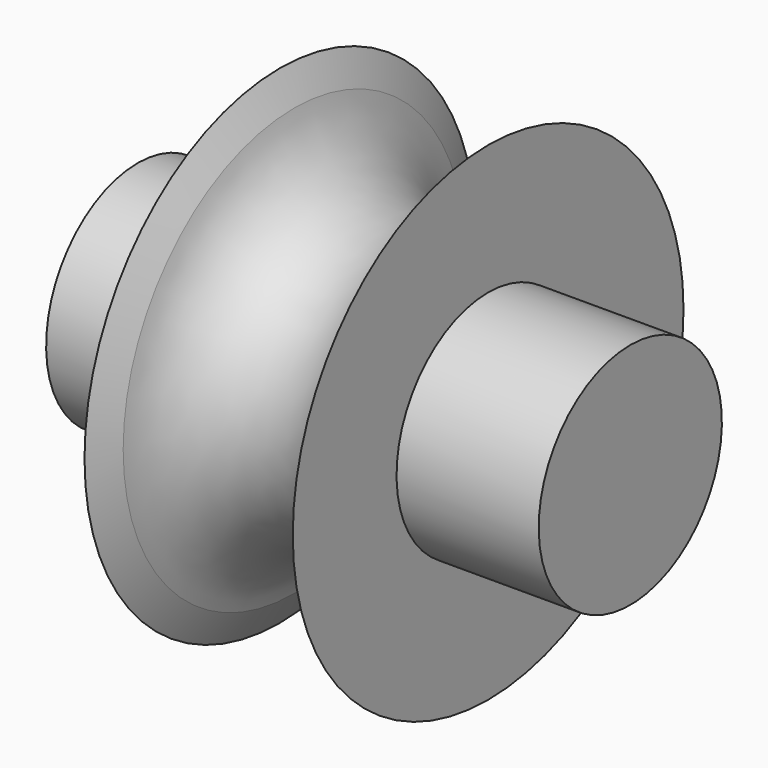
from build123d import *

# Parameters (mm, degrees)
F0_W = 14.7862989814
F0_H = 11.90625


with BuildPart() as f1:
    # F0 (on Front) → F1 (revolve)
    with BuildSketch(Plane.XZ):
        with BuildLine():
            Line((-10.8296010186, 11.90625), (-10.8296010186, 0))
            Line((-10.8296010186, 0), (0, 0))
            Line((0, 0), (10.8296010186, 0))
            Line((10.8296010186, 0), (10.8296010186, 11.90625))
            Line((10.8296010186, 11.90625), (10.8296010186, 25.4))
            Line((10.8296010186, 25.4), (9.349074204, 22.225))
            ThreePointArc((9.349074204, 22.225), (0, 14.5222065), (-9.349074204, 22.225))
            Line((-9.349074204, 22.225), (-10.8296010186, 25.4))
            Line((-10.8296010186, 25.4), (-10.8296010186, 11.90625))
        make_face()
        with Locations((18.2227505093, 5.953125)):
            Rectangle(F0_W, F0_H)
        with Locations((-18.2227505093, 5.953125)):
            Rectangle(F0_W, F0_H)
    revolve(axis=Axis((4.8291105777, 0, 0), (1, 0, 0)))


solid = f1.part
